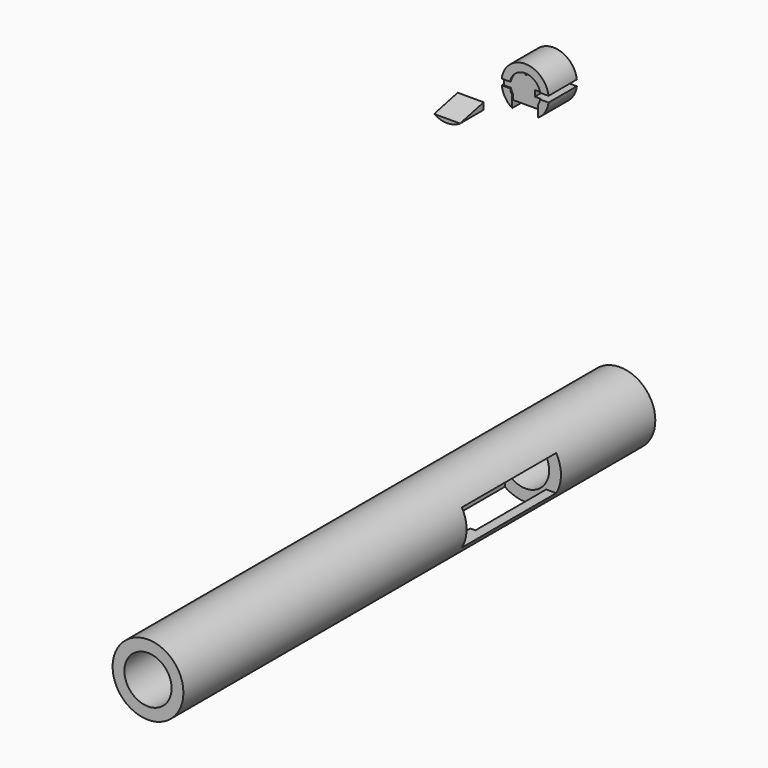
from build123d import *

# Parameters (mm, degrees)
F0_R      = 7.62
F0_R_2    = 5.08
F1_DEPTH  = 127
F2_W      = 8.89
F2_H      = 19.05
F3_DEPTH  = 25.4
F5_DEPTH  = 25.4
F6_DEPTH  = 6.35
F8_DEPTH  = 25.4
F9_DEPTH  = 7.62
F0_R_3    = 0.1984375
F10_DEPTH = 7.366


with BuildPart() as f1:
    # F0 (on Front) → F1 (new body)
    with BuildSketch(Plane.XZ):
        Circle(F0_R)
        Circle(F0_R_2, mode=Mode.SUBTRACT)
    extrude(amount=F1_DEPTH)

    # F2 (on Top) → F3 (cut)
    with BuildSketch(Plane.XY):
        with Locations((0, -34.925)):
            Rectangle(F2_W, F2_H)
    extrude(amount=-F3_DEPTH, mode=Mode.SUBTRACT)

    # F4 (on Right) → F5 (cut)
    with BuildSketch(Plane.YZ):
        Polygon((-25.4, -3.81), (-25.4, 0), (-25.4, 3.81), (-50.8, 3.81), (-50.8, 0), (-50.8, -3.81), align=None)
    extrude(amount=F5_DEPTH, mode=Mode.SUBTRACT)


with BuildPart() as f6:
    # F0 (on Front) → F6 (new body)
    with BuildSketch(Plane.XZ):
        with BuildLine():
            Line((-40.0079550745, 44.033558428), (-40.0079550745, 42.5849219836))
            ThreePointArc((-40.0079550745, 42.5849219836), (-37.2139550745, 41.747558428), (-34.4199550745, 42.5849219836))
            Line((-34.4199550745, 42.5849219836), (-34.4199550745, 44.033558428))
            Line((-34.4199550745, 44.033558428), (-37.2139550745, 44.033558428))
            Line((-37.2139550745, 44.033558428), (-40.0079550745, 44.033558428))
        make_face()
    extrude(amount=-F6_DEPTH)

    # F7 (on face) → F8 (cut)
    with BuildSketch(Plane(origin=(-40.0079550745, 0, 0), x_dir=(0, -1, 0), z_dir=(-1, 0, 0))):
        Polygon((0, 44.033558428), (-6.35, 44.033558428), (0, 42.5849219836), align=None)
    extrude(amount=-F8_DEPTH, mode=Mode.SUBTRACT)


with BuildPart() as f9:
    # F0 (on Front) → F9 (new body)
    with BuildSketch(Plane.XZ):
        with BuildLine():
            Line((-19.1010901349, 57.8297653733), (-19.3550901349, 57.8297653733))
            ThreePointArc((-19.3550901349, 57.8297653733), (-18.627388085, 55.7797814267), (-17.1089338874, 54.2221289288))
            Line((-17.1089338874, 54.2221289288), (-17.1089338874, 55.6707653733))
            Line((-17.1089338874, 55.6707653733), (-17.1089338874, 56.7050017528))
            ThreePointArc((-17.1089338874, 56.7050017528), (-17.3840819616, 57.2467612278), (-17.5553009962, 57.8297653733))
            Line((-17.5553009962, 57.8297653733), (-19.1010901349, 57.8297653733))
        make_face()
    extrude(amount=F9_DEPTH)



with BuildPart() as f9b:
    # F0 (on Front) → F9, piece 2 (new body)
    with BuildSketch(Plane.XZ):
        with BuildLine():
            ThreePointArc((-11.5209338874, 54.2221289288), (-10.0024796897, 55.7797814267), (-9.2747776398, 57.8297653733))
            Line((-9.2747776398, 57.8297653733), (-11.0745667785, 57.8297653733))
            ThreePointArc((-11.0745667785, 57.8297653733), (-11.2457858131, 57.2467612278), (-11.5209338874, 56.7050017528))
            Line((-11.5209338874, 56.7050017528), (-11.5209338874, 55.6707653733))
            Line((-11.5209338874, 55.6707653733), (-11.5209338874, 54.2221289288))
        make_face()
    extrude(amount=F9_DEPTH)


with BuildPart() as f9c:
    # F0 (on Front) → F9, piece 3 (new body)
    with BuildSketch(Plane.XZ):
        with BuildLine():
            Line((-11.0745667785, 59.0997653733), (-9.2747776398, 59.0997653733))
            ThreePointArc((-9.2747776398, 59.0997653733), (-14.3149338874, 63.5447653733), (-19.3550901349, 59.0997653733))
            Line((-19.3550901349, 59.0997653733), (-19.1010901349, 59.0997653733))
            Line((-19.1010901349, 59.0997653733), (-17.5553009962, 59.0997653733))
            ThreePointArc((-17.5553009962, 59.0997653733), (-14.3149338874, 61.7667653733), (-11.0745667785, 59.0997653733))
        make_face()
    extrude(amount=F9_DEPTH)


with BuildPart() as f9_1:
    add(f9.part)

    add(f9b.part)  # F10 merges F9b
    # F0 (on Front) + F9_face (on face) → F10 (join)
    with BuildSketch(Plane.XZ):
        with BuildLine():
            Line((-12.5551702669, 55.6707653733), (-11.5209338874, 55.6707653733))
            Line((-11.5209338874, 55.6707653733), (-11.5209338874, 56.7050017528))
            ThreePointArc((-11.5209338874, 56.7050017528), (-11.9800672959, 56.1298987818), (-12.5551702669, 55.6707653733))
        make_face()
        with BuildLine():
            Line((-17.1089338874, 56.7050017528), (-17.1089338874, 55.6707653733))
            Line((-17.1089338874, 55.6707653733), (-16.0746975079, 55.6707653733))
            ThreePointArc((-16.0746975079, 55.6707653733), (-16.6498004788, 56.1298987818), (-17.1089338874, 56.7050017528))
        make_face()
        with BuildLine():
            Line((-17.1089338874, 58.4647653733), (-17.1089338874, 57.8297653733))
            Line((-17.1089338874, 57.8297653733), (-17.0358181186, 57.8297653733))
            ThreePointArc((-17.0358181186, 57.8297653733), (-17.0905947584, 58.1451676122), (-17.1089338874, 58.4647653733))
        make_face()
        with BuildLine():
            ThreePointArc((-11.5209338874, 54.2221289288), (-10.0024796897, 55.7797814267), (-9.2747776398, 57.8297653733))
            Line((-9.2747776398, 57.8297653733), (-11.0745667785, 57.8297653733))
            ThreePointArc((-11.0745667785, 57.8297653733), (-11.2457858131, 57.2467612278), (-11.5209338874, 56.7050017528))
            Line((-11.5209338874, 56.7050017528), (-11.5209338874, 55.6707653733))
            Line((-11.5209338874, 55.6707653733), (-11.5209338874, 54.2221289288))
        make_face()
        with BuildLine():
            ThreePointArc((-12.5551702669, 55.6707653733), (-11.9800672959, 56.1298987818), (-11.5209338874, 56.7050017528))
            Line((-11.5209338874, 56.7050017528), (-11.5209338874, 57.8297653733))
            Line((-11.5209338874, 57.8297653733), (-11.5940496561, 57.8297653733))
            ThreePointArc((-11.5940496561, 57.8297653733), (-12.5782350073, 56.276087005), (-14.3149338874, 55.6707653733))
            Line((-14.3149338874, 55.6707653733), (-12.5551702669, 55.6707653733))
        make_face()
        with BuildLine():
            Line((-12.4099338874, 59.0997653733), (-11.5940496561, 59.0997653733))
            ThreePointArc((-11.5940496561, 59.0997653733), (-14.3149338874, 61.2587653733), (-17.0358181186, 59.0997653733))
            Line((-17.0358181186, 59.0997653733), (-16.2199338874, 59.0997653733))
            Line((-16.2199338874, 59.0997653733), (-16.2199338874, 58.4647653733))
            Line((-16.2199338874, 58.4647653733), (-16.2199338874, 57.8297653733))
            Line((-16.2199338874, 57.8297653733), (-17.0358181186, 57.8297653733))
            ThreePointArc((-17.0358181186, 57.8297653733), (-16.0516327674, 56.276087005), (-14.3149338874, 55.6707653733))
            ThreePointArc((-14.3149338874, 55.6707653733), (-12.5782350073, 56.276087005), (-11.5940496561, 57.8297653733))
            Line((-11.5940496561, 57.8297653733), (-12.4099338874, 57.8297653733))
            Line((-12.4099338874, 57.8297653733), (-12.4099338874, 58.4647653733))
            Line((-12.4099338874, 58.4647653733), (-12.4099338874, 59.0997653733))
        make_face()
        with BuildLine():
            ThreePointArc((-11.5209338874, 56.7050017528), (-11.2457858131, 57.2467612278), (-11.0745667785, 57.8297653733))
            Line((-11.0745667785, 57.8297653733), (-11.5209338874, 57.8297653733))
            Line((-11.5209338874, 57.8297653733), (-11.5209338874, 56.7050017528))
        make_face()
        with BuildLine():
            Line((-17.0358181186, 59.0997653733), (-17.5553009962, 59.0997653733))
            ThreePointArc((-17.5553009962, 59.0997653733), (-17.6169338874, 58.4647653733), (-17.5553009962, 57.8297653733))
            Line((-17.5553009962, 57.8297653733), (-17.1089338874, 57.8297653733))
            Line((-17.1089338874, 57.8297653733), (-17.1089338874, 58.4647653733))
            ThreePointArc((-17.1089338874, 58.4647653733), (-17.0905947584, 58.7843631344), (-17.0358181186, 59.0997653733))
        make_face()
        with BuildLine():
            Line((-16.2199338874, 59.0997653733), (-17.0358181186, 59.0997653733))
            ThreePointArc((-17.0358181186, 59.0997653733), (-17.0905947584, 58.7843631344), (-17.1089338874, 58.4647653733))
            ThreePointArc((-17.1089338874, 58.4647653733), (-17.0905947584, 58.1451676122), (-17.0358181186, 57.8297653733))
            Line((-17.0358181186, 57.8297653733), (-16.2199338874, 57.8297653733))
            Line((-16.2199338874, 57.8297653733), (-16.2199338874, 58.4647653733))
            Line((-16.2199338874, 58.4647653733), (-16.2199338874, 59.0997653733))
        make_face()
        with BuildLine():
            Line((-11.5940496561, 59.0997653733), (-11.0745667785, 59.0997653733))
            ThreePointArc((-11.0745667785, 59.0997653733), (-14.3149338874, 61.7667653733), (-17.5553009962, 59.0997653733))
            Line((-17.5553009962, 59.0997653733), (-17.0358181186, 59.0997653733))
            ThreePointArc((-17.0358181186, 59.0997653733), (-14.3149338874, 61.2587653733), (-11.5940496561, 59.0997653733))
        make_face()
        with Locations((-14.3149338874, 61.5127653733)):
            Circle(F0_R_3, mode=Mode.SUBTRACT)
        with BuildLine():
            Line((-17.1089338874, 57.8297653733), (-17.1089338874, 56.7050017528))
            ThreePointArc((-17.1089338874, 56.7050017528), (-16.6498004788, 56.1298987818), (-16.0746975079, 55.6707653733))
            Line((-16.0746975079, 55.6707653733), (-14.3149338874, 55.6707653733))
            ThreePointArc((-14.3149338874, 55.6707653733), (-16.0516327674, 56.276087005), (-17.0358181186, 57.8297653733))
            Line((-17.0358181186, 57.8297653733), (-17.1089338874, 57.8297653733))
        make_face()
        with BuildLine():
            Line((-17.1089338874, 57.8297653733), (-17.5553009962, 57.8297653733))
            ThreePointArc((-17.5553009962, 57.8297653733), (-17.3840819616, 57.2467612278), (-17.1089338874, 56.7050017528))
            Line((-17.1089338874, 56.7050017528), (-17.1089338874, 57.8297653733))
        make_face()
        with BuildLine():
            Line((-17.5553009962, 59.0997653733), (-19.1010901349, 59.0997653733))
            Line((-19.1010901349, 59.0997653733), (-19.1010901349, 57.8297653733))
            Line((-19.1010901349, 57.8297653733), (-17.5553009962, 57.8297653733))
            ThreePointArc((-17.5553009962, 57.8297653733), (-17.6169338874, 58.4647653733), (-17.5553009962, 59.0997653733))
        make_face()
    with BuildSketch(Plane(origin=(-18.0313352831, 0, 56.397449036), x_dir=(1, 0, 0), z_dir=(0, 1, 0))):
        with BuildLine():
            ThreePointArc((0.4760342869, -1.4323163373), (0.6472533215, -0.8493121918), (0.9224013958, -0.3075527168))
            Line((0.9224013958, -0.3075527168), (0.9224013958, 2.1753201072))
            ThreePointArc((0.9224013958, 2.1753201072), (-0.5960528019, 0.6176676093), (-1.3237548518, -1.4323163373))
            Line((-1.3237548518, -1.4323163373), (0.4760342869, -1.4323163373))
        make_face()
    extrude(amount=F10_DEPTH, dir=(0, -1, 0))


solid = Compound([f1.part, f6.part, f9c.part, f9_1.part])
